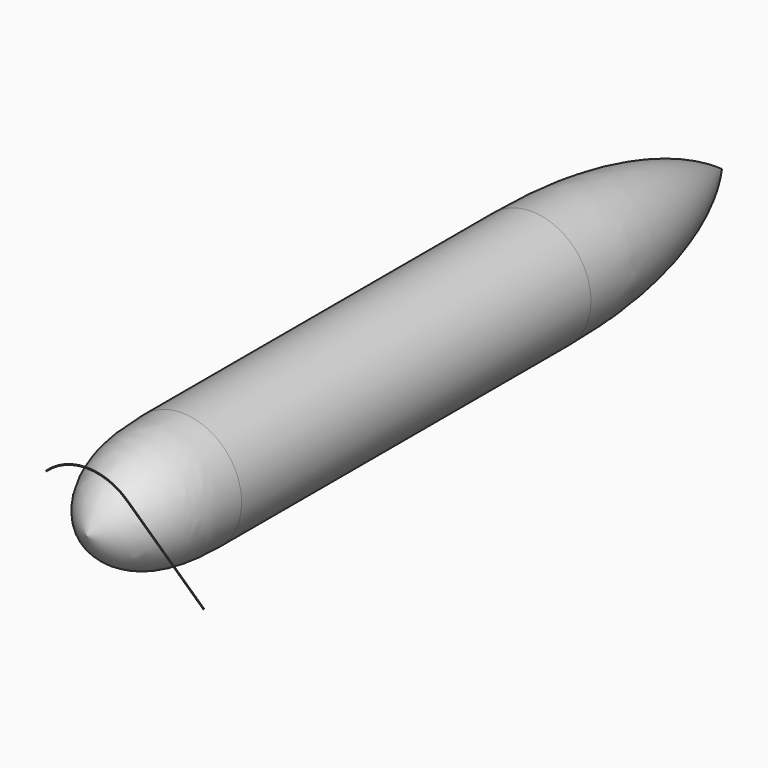
from build123d import *

# Parameters (mm, degrees)
F4_R = 1


with BuildPart() as f1:
    # F0 (on Right) → F1 (revolve)
    with BuildSketch(Plane.YZ):
        with BuildLine():
            Line((1400, 150), (300, 150))
            add(Edge.make_bspline(
                [(300, 150), (175.901959, 150), (46.829991, 127.835661), (0, 0)],
                knots=[0, 0, 0, 0, 335.410197, 335.410197, 335.410197, 335.410197], degree=3))
            Line((0, 0), (2000, 0))
            add(Edge.make_bspline(
                [(1400, 150), (1624.926651, 150), (1843.137187, 113.190754), (2000, 0)],
                knots=[0, 0, 0, 0, 618.465844, 618.465844, 618.465844, 618.465844], degree=3))
        make_face()
    revolve(axis=Axis((0, 1000, 0), (0, 1, 0)))


with BuildPart() as f5:
    # F5: sweep along a path in F2
    with BuildLine(Plane.XZ) as f5_path:
        Line((294.485271, -67.414649), (101.654966, 110.300807))
        ThreePointArc((101.654966, 110.300807), (0, 150), (-101.654966, 110.300807))
    # F4 (on face) → F5 (sweep)
    with BuildSketch(Plane(origin=(192.830305, 0, -177.715455), x_dir=(0, -1, 0), z_dir=(-0.735339, 0, 0.6777))):
        with Locations((0, 150)):
            Circle(F4_R)
    sweep(path=f5_path.line)


solid = Compound([f1.part, f5.part])
